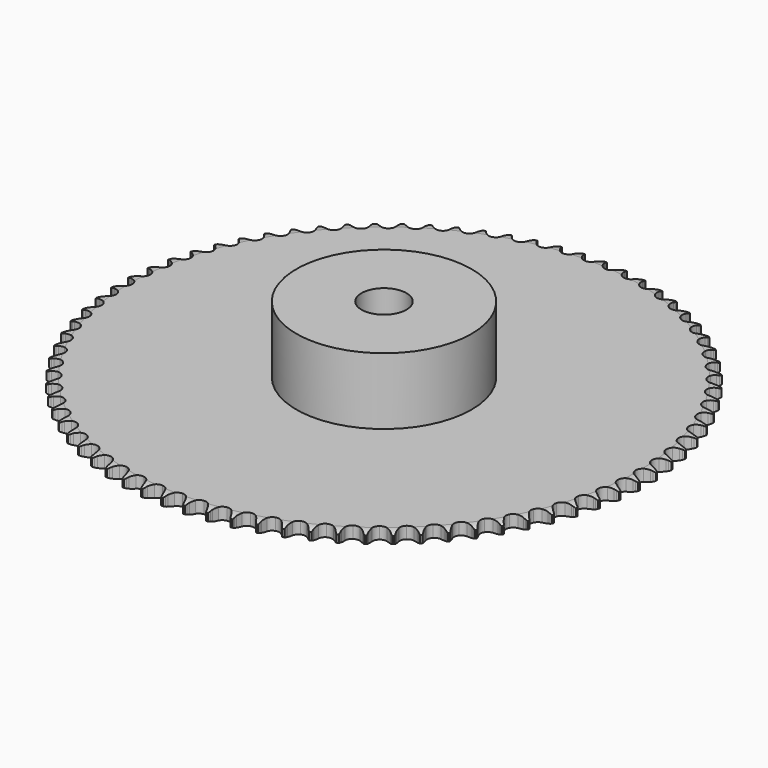
from build123d import *

# Parameters (mm, degrees)
PAD_DEPTH         = 5.3
SKETCH001_R       = 39
PAD001_DEPTH      = 35
SKETCH002_R       = 10
POCKET_DEPTH      = 0.001
POCKET_DEPTH_BACK = 35.001


with BuildPart() as part:
    # Sprocket → Pad (new body)
    with BuildSketch(Plane.XY):
        with BuildLine():
            ThreePointArc((-4.880885, 118.008917), (-4.408054, 117.285367), (-4.064703, 116.492143))
            Line((-4.064703, 116.492143), (-3.757636, 115.575814))
            ThreePointArc((-3.757636, 115.575814), (-3.272177, 114.423325), (-2.619252, 113.356748))
            ThreePointArc((-2.619252, 113.356748), (-1.471207, 112.370741), (0, 112.016106))
            ThreePointArc((0, 112.016106), (1.471207, 112.370741), (2.619252, 113.356748))
            ThreePointArc((2.619252, 113.356748), (3.272177, 114.423325), (3.757636, 115.575814))
            Line((3.757636, 115.575814), (4.064703, 116.492143))
            ThreePointArc((4.064703, 116.492143), (4.408054, 117.285367), (4.880885, 118.008917))
            ThreePointArc((4.880885, 118.008917), (5.292351, 117.248792), (5.569025, 116.429924))
            Line((5.569025, 116.429924), (5.799374, 115.491367))
            ThreePointArc((5.799374, 115.491367), (6.188002, 114.302726), (6.75062, 113.185874))
            ThreePointArc((6.75062, 113.185874), (7.81332, 112.108429), (9.250217, 111.633514))
            ThreePointArc((9.250217, 111.633514), (10.745684, 111.865447), (11.971232, 112.753281))
            Line((11.971232, 112.753281), (13.288977, 114.870761))
            ThreePointArc((13.288977, 114.870761), (13.466902, 115.320236), (13.670665, 115.758603))
            ThreePointArc((13.670665, 115.758603), (14.078347, 116.520764), (14.609313, 117.202796))
            ThreePointArc((14.609313, 117.202796), (14.956603, 116.411289), (15.16471, 115.572371))
            Line((15.16471, 115.572371), (15.316767, 114.617997))
            ThreePointArc((15.316767, 114.617997), (15.605911, 113.401323), (16.074379, 112.241825))
            ThreePointArc((16.074379, 112.241825), (17.044474, 111.080303), (18.437245, 110.488352))
            ThreePointArc((18.437245, 110.488352), (19.946758, 110.595998), (21.241436, 111.379595))
            Line((21.241436, 111.379595), (22.72954, 113.381024))
            ThreePointArc((22.72954, 113.381024), (22.943975, 113.814271), (23.183243, 114.234314))
            ThreePointArc((23.183243, 114.234314), (23.652471, 114.960206), (24.237945, 115.596062))
            ThreePointArc((24.237945, 115.596062), (24.518687, 114.778579), (24.656806, 113.92534))
            Line((24.656806, 113.92534), (24.729532, 112.961669))
            ThreePointArc((24.729532, 112.961669), (24.917216, 111.725274), (25.288333, 110.53105))
            ThreePointArc((25.288333, 110.53105), (26.159198, 109.293386), (27.498328, 108.588443))
            ThreePointArc((27.498328, 108.588443), (29.011575, 108.571066), (30.36654, 109.245074))
            Line((30.36654, 109.245074), (32.014838, 111.116779))
            ThreePointArc((32.014838, 111.116779), (32.264318, 111.530839), (32.537455, 111.929689))
            ThreePointArc((32.537455, 111.929689), (33.065024, 112.614353), (33.701008, 113.199689))
            ThreePointArc((33.701008, 113.199689), (33.913283, 112.361815), (33.980471, 111.500085))
            Line((33.980471, 111.500085), (33.973369, 110.5337))
            ThreePointArc((33.973369, 110.5337), (34.058311, 109.286028), (34.329543, 108.065237))
            ThreePointArc((34.329543, 108.065237), (35.095227, 106.759885), (36.37157, 105.946764))
            ThreePointArc((36.37157, 105.946764), (37.878213, 105.804484), (39.284209, 106.364297))
            Line((39.284209, 106.364297), (41.081442, 108.093495))
            ThreePointArc((41.081442, 108.093495), (41.364263, 108.485538), (41.669404, 108.860471))
            ThreePointArc((41.669404, 108.860471), (42.25171, 109.49923), (42.933858, 110.030048))
            ThreePointArc((42.933858, 110.030048), (43.076217, 109.177506), (43.072014, 108.31317))
            Line((43.072014, 108.31317), (42.985133, 107.350672))
            ThreePointArc((42.985133, 107.350672), (42.966754, 106.100248), (43.136246, 104.861228))
            ThreePointArc((43.136246, 104.861228), (43.79152, 103.497105), (44.996357, 102.581362))
            ThreePointArc((44.996357, 102.581362), (46.486105, 102.31515), (47.933528, 102.756945))
            Line((47.933528, 102.756945), (49.867418, 104.331822))
            ThreePointArc((49.867418, 104.331822), (50.181647, 104.699171), (50.516708, 105.047625))
            ThreePointArc((50.516708, 105.047625), (51.149774, 105.636116), (51.873426, 106.108789))
            ThreePointArc((51.873426, 106.108789), (51.944897, 105.247404), (51.869332, 104.386367))
            Line((51.869332, 104.386367), (51.703265, 103.434331))
            ThreePointArc((51.703265, 103.434331), (51.581689, 102.189696), (51.648286, 100.940911))
            ThreePointArc((51.648286, 100.940911), (52.188673, 99.527334), (53.313774, 98.515225))
            ThreePointArc((53.313774, 98.515225), (54.776449, 98.1269), (56.255412, 98.447659))
            Line((56.255412, 98.447659), (58.312749, 99.857457))
            ThreePointArc((58.312749, 99.857457), (58.656241, 100.197603), (59.018932, 100.517197))
            ThreePointArc((59.018932, 100.517197), (59.698432, 101.0514), (60.458647, 101.4627))
            ThreePointArc((60.458647, 101.4627), (60.458741, 100.598355), (60.31233, 99.746499))
            Line((60.31233, 99.746499), (60.068212, 98.811429))
            ThreePointArc((60.068212, 98.811429), (59.84427, 97.581084), (59.807515, 96.331065))
            ThreePointArc((59.807515, 96.331065), (60.229325, 94.877692), (61.267003, 93.776129))
            ThreePointArc((61.267003, 93.776129), (62.692615, 93.268344), (64.193014, 93.465875))
            Line((64.193014, 93.465875), (66.359745, 94.700965))
            ThreePointArc((66.359745, 94.700965), (66.730152, 95.011583), (67.117997, 95.300135))
            ThreePointArc((67.117997, 95.300135), (67.83929, 95.776401), (68.630873, 96.123518))
            ThreePointArc((68.630873, 96.123518), (68.55959, 95.262117), (68.343333, 94.425262))
            Line((68.343333, 94.425262), (68.022831, 93.513544))
            ThreePointArc((68.022831, 93.513544), (67.698053, 92.305894), (67.558198, 91.06318))
            ThreePointArc((67.558198, 91.06318), (67.858549, 89.579938), (68.801716, 88.396447))
            ThreePointArc((68.801716, 88.396447), (70.180527, 87.77267), (71.692114, 87.845624))
            Line((71.692114, 87.845624), (73.953437, 88.897569))
            ThreePointArc((73.953437, 88.897569), (74.348229, 89.176538), (74.758578, 89.432077))
            ThreePointArc((74.758578, 89.432077), (75.516737, 89.847152), (76.334281, 90.127715))
            ThreePointArc((76.334281, 90.127715), (76.192107, 89.275143), (75.907482, 88.459004))
            Line((75.907482, 88.459004), (75.512786, 87.576867))
            ThreePointArc((75.512786, 87.576867), (75.089391, 86.400162), (74.847391, 85.173241))
            ThreePointArc((74.847391, 85.173241), (75.02423, 83.670263), (75.866444, 82.412927))
            ThreePointArc((75.866444, 82.412927), (77.189034, 81.67742), (78.701483, 81.625299))
            Line((78.701483, 81.625299), (81.041951, 82.486912))
            ThreePointArc((81.041951, 82.486912), (81.458433, 82.732327), (81.888481, 82.953107))
            ThreePointArc((81.888481, 82.953107), (82.678328, 83.304155), (83.516248, 83.516248))
            ThreePointArc((83.516248, 83.516248), (83.304155, 82.678328), (82.953107, 81.888481))
            Line((82.953107, 81.888481), (82.486912, 81.041951))
            ThreePointArc((82.486912, 81.041951), (81.967791, 79.904229), (81.625299, 78.701483))
            ThreePointArc((81.625299, 78.701483), (81.67742, 77.189034), (82.412927, 75.866444))
            ThreePointArc((82.412927, 75.866444), (83.670263, 75.02423), (85.173241, 74.847391))
            Line((85.173241, 74.847391), (87.576867, 75.512786))
            ThreePointArc((87.576867, 75.512786), (88.012192, 75.72297), (88.459004, 75.907482))
            ThreePointArc((88.459004, 75.907482), (89.275143, 76.192107), (90.127715, 76.334281))
            ThreePointArc((90.127715, 76.334281), (89.847152, 75.516737), (89.432077, 74.758578))
            Line((89.432077, 74.758578), (88.897569, 73.953437))
            ThreePointArc((88.897569, 73.953437), (88.286268, 72.862469), (87.845624, 71.692114))
            ThreePointArc((87.845624, 71.692114), (87.77267, 70.180527), (88.396447, 68.801716))
            ThreePointArc((88.396447, 68.801716), (89.579938, 67.858549), (91.06318, 67.558198))
            Line((91.06318, 67.558198), (93.513544, 68.022831))
            ThreePointArc((93.513544, 68.022831), (93.964739, 68.196349), (94.425262, 68.343333))
            ThreePointArc((94.425262, 68.343333), (95.262117, 68.55959), (96.123518, 68.630873))
            ThreePointArc((96.123518, 68.630873), (95.776401, 67.83929), (95.300135, 67.117997))
            Line((95.300135, 67.117997), (94.700965, 66.359745))
            ThreePointArc((94.700965, 66.359745), (94.001661, 65.322984), (93.465875, 64.193014))
            ThreePointArc((93.465875, 64.193014), (93.268344, 62.692615), (93.776129, 61.267003))
            ThreePointArc((93.776129, 61.267003), (94.877692, 60.229325), (96.331065, 59.807515))
            Line((96.331065, 59.807515), (98.811429, 60.068212))
            ThreePointArc((98.811429, 60.068212), (99.275412, 60.203877), (99.746499, 60.31233))
            ThreePointArc((99.746499, 60.31233), (100.598355, 60.458741), (101.4627, 60.458647))
            ThreePointArc((101.4627, 60.458647), (101.0514, 59.698432), (100.517197, 59.018932))
            Line((100.517197, 59.018932), (99.857457, 58.312749))
            ThreePointArc((99.857457, 58.312749), (99.074927, 57.337278), (98.447659, 56.255412))
            ThreePointArc((98.447659, 56.255412), (98.1269, 54.776449), (98.515225, 53.313774))
            ThreePointArc((98.515225, 53.313774), (99.527334, 52.188673), (100.940911, 51.648286))
            Line((100.940911, 51.648286), (103.434331, 51.703265))
            ThreePointArc((103.434331, 51.703265), (103.907933, 51.800152), (104.386367, 51.869332))
            ThreePointArc((104.386367, 51.869332), (105.247404, 51.944897), (106.108789, 51.873426))
            ThreePointArc((106.108789, 51.873426), (105.636116, 51.149774), (105.047625, 50.516708))
            Line((105.047625, 50.516708), (104.331822, 49.867418))
            ThreePointArc((104.331822, 49.867418), (103.471411, 48.959899), (102.756945, 47.933528))
            ThreePointArc((102.756945, 47.933528), (102.31515, 46.486105), (102.581362, 44.996357))
            ThreePointArc((102.581362, 44.996357), (103.497105, 43.79152), (104.861228, 43.136246))
            Line((104.861228, 43.136246), (107.350672, 42.985133))
            ThreePointArc((107.350672, 42.985133), (107.830657, 43.042579), (108.31317, 43.072014))
            ThreePointArc((108.31317, 43.072014), (109.177506, 43.076217), (110.030048, 42.933858))
            ThreePointArc((110.030048, 42.933858), (109.49923, 42.25171), (108.860471, 41.669404))
            Line((108.860471, 41.669404), (108.093495, 41.081442))
            ThreePointArc((108.093495, 41.081442), (107.16108, 40.248075), (106.364297, 39.284209))
            ThreePointArc((106.364297, 39.284209), (105.804484, 37.878213), (105.946764, 36.37157))
            ThreePointArc((105.946764, 36.37157), (106.759885, 35.095227), (108.065237, 34.329543))
            Line((108.065237, 34.329543), (110.5337, 33.973369))
            ThreePointArc((110.5337, 33.973369), (111.016789, 33.990981), (111.500085, 33.980471))
            ThreePointArc((111.500085, 33.980471), (112.361815, 33.913283), (113.199689, 33.701008))
            ThreePointArc((113.199689, 33.701008), (112.614353, 33.065024), (111.929689, 32.537455))
            Line((111.929689, 32.537455), (111.116779, 32.014838))
            ThreePointArc((111.116779, 32.014838), (110.11873, 31.261315), (109.245074, 30.36654))
            ThreePointArc((109.245074, 30.36654), (108.571066, 29.011575), (108.588443, 27.498328))
            ThreePointArc((108.588443, 27.498328), (109.293386, 26.159198), (110.53105, 25.288333))
            Line((110.53105, 25.288333), (112.961669, 24.729532))
            ThreePointArc((112.961669, 24.729532), (113.444563, 24.707191), (113.92534, 24.656806))
            ThreePointArc((113.92534, 24.656806), (114.778579, 24.518687), (115.596062, 24.237945))
            ThreePointArc((115.596062, 24.237945), (114.960206, 23.652471), (114.234314, 23.183243))
            Line((114.234314, 23.183243), (113.381024, 22.72954))
            ThreePointArc((113.381024, 22.72954), (112.324158, 22.06101), (111.379595, 21.241436))
            ThreePointArc((111.379595, 21.241436), (110.595998, 19.946758), (110.488352, 18.437245))
            ThreePointArc((110.488352, 18.437245), (111.080303, 17.044474), (112.241825, 16.074379))
            Line((112.241825, 16.074379), (114.617997, 15.316767))
            ThreePointArc((114.617997, 15.316767), (115.097396, 15.254626), (115.572371, 15.16471))
            ThreePointArc((115.572371, 15.16471), (116.411289, 14.956603), (117.202796, 14.609313))
            ThreePointArc((117.202796, 14.609313), (116.520764, 14.078347), (115.758603, 13.670665))
            Line((115.758603, 13.670665), (114.870761, 13.288977))
            ThreePointArc((114.870761, 13.288977), (113.762298, 12.710005), (112.753281, 11.971232))
            ThreePointArc((112.753281, 11.971232), (111.865447, 10.745684), (111.633514, 9.250217))
            ThreePointArc((111.633514, 9.250217), (112.108429, 7.81332), (113.185874, 6.75062))
            Line((113.185874, 6.75062), (115.491367, 5.799374))
            ThreePointArc((115.491367, 5.799374), (115.963997, 5.697856), (116.429924, 5.569025))
            ThreePointArc((116.429924, 5.569025), (117.248792, 5.292351), (118.008917, 4.880885))
            ThreePointArc((118.008917, 4.880885), (117.285367, 4.408054), (116.492143, 4.064703))
            Line((116.492143, 4.064703), (115.575814, 3.757636))
            ThreePointArc((115.575814, 3.757636), (114.423325, 3.272177), (113.356748, 2.619252))
            ThreePointArc((113.356748, 2.619252), (112.370741, 1.471207), (112.016106, 0))
            ThreePointArc((112.016106, 0), (112.370741, -1.471207), (113.356748, -2.619252))
            Line((113.356748, -2.619252), (115.575814, -3.757636))
            ThreePointArc((115.575814, -3.757636), (116.038447, -3.897836), (116.492143, -4.064703))
            ThreePointArc((116.492143, -4.064703), (117.285367, -4.408054), (118.008917, -4.880885))
            ThreePointArc((118.008917, -4.880885), (117.248792, -5.292351), (116.429924, -5.569025))
            Line((116.429924, -5.569025), (115.491367, -5.799374))
            ThreePointArc((115.491367, -5.799374), (114.302726, -6.188002), (113.185874, -6.75062))
            ThreePointArc((113.185874, -6.75062), (112.108429, -7.81332), (111.633514, -9.250217))
            ThreePointArc((111.633514, -9.250217), (111.865447, -10.745684), (112.753281, -11.971232))
            Line((112.753281, -11.971232), (114.870761, -13.288977))
            ThreePointArc((114.870761, -13.288977), (115.320236, -13.466902), (115.758603, -13.670665))
            ThreePointArc((115.758603, -13.670665), (116.520764, -14.078347), (117.202796, -14.609313))
            ThreePointArc((117.202796, -14.609313), (116.411289, -14.956603), (115.572371, -15.16471))
            Line((115.572371, -15.16471), (114.617997, -15.316767))
            ThreePointArc((114.617997, -15.316767), (113.401323, -15.605911), (112.241825, -16.074379))
            ThreePointArc((112.241825, -16.074379), (111.080303, -17.044474), (110.488352, -18.437245))
            ThreePointArc((110.488352, -18.437245), (110.595998, -19.946758), (111.379595, -21.241436))
            Line((111.379595, -21.241436), (113.381024, -22.72954))
            ThreePointArc((113.381024, -22.72954), (113.814271, -22.943975), (114.234314, -23.183243))
            ThreePointArc((114.234314, -23.183243), (114.960206, -23.652471), (115.596062, -24.237945))
            ThreePointArc((115.596062, -24.237945), (114.778579, -24.518687), (113.92534, -24.656806))
            Line((113.92534, -24.656806), (112.961669, -24.729532))
            ThreePointArc((112.961669, -24.729532), (111.725274, -24.917216), (110.53105, -25.288333))
            ThreePointArc((110.53105, -25.288333), (109.293386, -26.159198), (108.588443, -27.498328))
            ThreePointArc((108.588443, -27.498328), (108.571066, -29.011575), (109.245074, -30.36654))
            Line((109.245074, -30.36654), (111.116779, -32.014838))
            ThreePointArc((111.116779, -32.014838), (111.530839, -32.264318), (111.929689, -32.537455))
            ThreePointArc((111.929689, -32.537455), (112.614353, -33.065024), (113.199689, -33.701008))
            ThreePointArc((113.199689, -33.701008), (112.361815, -33.913283), (111.500085, -33.980471))
            Line((111.500085, -33.980471), (110.5337, -33.973369))
            ThreePointArc((110.5337, -33.973369), (109.286028, -34.058311), (108.065237, -34.329543))
            ThreePointArc((108.065237, -34.329543), (106.759885, -35.095227), (105.946764, -36.37157))
            ThreePointArc((105.946764, -36.37157), (105.804484, -37.878213), (106.364297, -39.284209))
            Line((106.364297, -39.284209), (108.093495, -41.081442))
            ThreePointArc((108.093495, -41.081442), (108.485538, -41.364263), (108.860471, -41.669404))
            ThreePointArc((108.860471, -41.669404), (109.49923, -42.25171), (110.030048, -42.933858))
            ThreePointArc((110.030048, -42.933858), (109.177506, -43.076217), (108.31317, -43.072014))
            Line((108.31317, -43.072014), (107.350672, -42.985133))
            ThreePointArc((107.350672, -42.985133), (106.100248, -42.966754), (104.861228, -43.136246))
            ThreePointArc((104.861228, -43.136246), (103.497105, -43.79152), (102.581362, -44.996357))
            ThreePointArc((102.581362, -44.996357), (102.31515, -46.486105), (102.756945, -47.933528))
            Line((102.756945, -47.933528), (104.331822, -49.867418))
            ThreePointArc((104.331822, -49.867418), (104.699171, -50.181647), (105.047625, -50.516708))
            ThreePointArc((105.047625, -50.516708), (105.636116, -51.149774), (106.108789, -51.873426))
            ThreePointArc((106.108789, -51.873426), (105.247404, -51.944897), (104.386367, -51.869332))
            Line((104.386367, -51.869332), (103.434331, -51.703265))
            ThreePointArc((103.434331, -51.703265), (102.189696, -51.581689), (100.940911, -51.648286))
            ThreePointArc((100.940911, -51.648286), (99.527334, -52.188673), (98.515225, -53.313774))
            ThreePointArc((98.515225, -53.313774), (98.1269, -54.776449), (98.447659, -56.255412))
            Line((98.447659, -56.255412), (99.857457, -58.312749))
            ThreePointArc((99.857457, -58.312749), (100.197603, -58.656241), (100.517197, -59.018932))
            ThreePointArc((100.517197, -59.018932), (101.0514, -59.698432), (101.4627, -60.458647))
            ThreePointArc((101.4627, -60.458647), (100.598355, -60.458741), (99.746499, -60.31233))
            Line((99.746499, -60.31233), (98.811429, -60.068212))
            ThreePointArc((98.811429, -60.068212), (97.581084, -59.84427), (96.331065, -59.807515))
            ThreePointArc((96.331065, -59.807515), (94.877692, -60.229325), (93.776129, -61.267003))
            ThreePointArc((93.776129, -61.267003), (93.268344, -62.692615), (93.465875, -64.193014))
            Line((93.465875, -64.193014), (94.700965, -66.359745))
            ThreePointArc((94.700965, -66.359745), (95.011583, -66.730152), (95.300135, -67.117997))
            ThreePointArc((95.300135, -67.117997), (95.776401, -67.83929), (96.123518, -68.630873))
            ThreePointArc((96.123518, -68.630873), (95.262117, -68.55959), (94.425262, -68.343333))
            Line((94.425262, -68.343333), (93.513544, -68.022831))
            ThreePointArc((93.513544, -68.022831), (92.305894, -67.698053), (91.06318, -67.558198))
            ThreePointArc((91.06318, -67.558198), (89.579938, -67.858549), (88.396447, -68.801716))
            ThreePointArc((88.396447, -68.801716), (87.77267, -70.180527), (87.845624, -71.692114))
            Line((87.845624, -71.692114), (88.897569, -73.953437))
            ThreePointArc((88.897569, -73.953437), (89.176538, -74.348229), (89.432077, -74.758578))
            ThreePointArc((89.432077, -74.758578), (89.847152, -75.516737), (90.127715, -76.334281))
            ThreePointArc((90.127715, -76.334281), (89.275143, -76.192107), (88.459004, -75.907482))
            Line((88.459004, -75.907482), (87.576867, -75.512786))
            ThreePointArc((87.576867, -75.512786), (86.400162, -75.089391), (85.173241, -74.847391))
            ThreePointArc((85.173241, -74.847391), (83.670263, -75.02423), (82.412927, -75.866444))
            ThreePointArc((82.412927, -75.866444), (81.67742, -77.189034), (81.625299, -78.701483))
            Line((81.625299, -78.701483), (82.486912, -81.041951))
            ThreePointArc((82.486912, -81.041951), (82.732327, -81.458433), (82.953107, -81.888481))
            ThreePointArc((82.953107, -81.888481), (83.304155, -82.678328), (83.516248, -83.516248))
            ThreePointArc((83.516248, -83.516248), (82.678328, -83.304155), (81.888481, -82.953107))
            Line((81.888481, -82.953107), (81.041951, -82.486912))
            ThreePointArc((81.041951, -82.486912), (79.904229, -81.967791), (78.701483, -81.625299))
            ThreePointArc((78.701483, -81.625299), (77.189034, -81.67742), (75.866444, -82.412927))
            ThreePointArc((75.866444, -82.412927), (75.02423, -83.670263), (74.847391, -85.173241))
            Line((74.847391, -85.173241), (75.512786, -87.576867))
            ThreePointArc((75.512786, -87.576867), (75.72297, -88.012192), (75.907482, -88.459004))
            ThreePointArc((75.907482, -88.459004), (76.192107, -89.275143), (76.334281, -90.127715))
            ThreePointArc((76.334281, -90.127715), (75.516737, -89.847152), (74.758578, -89.432077))
            Line((74.758578, -89.432077), (73.953437, -88.897569))
            ThreePointArc((73.953437, -88.897569), (72.862469, -88.286268), (71.692114, -87.845624))
            ThreePointArc((71.692114, -87.845624), (70.180527, -87.77267), (68.801716, -88.396447))
            ThreePointArc((68.801716, -88.396447), (67.858549, -89.579938), (67.558198, -91.06318))
            Line((67.558198, -91.06318), (68.022831, -93.513544))
            ThreePointArc((68.022831, -93.513544), (68.196349, -93.964739), (68.343333, -94.425262))
            ThreePointArc((68.343333, -94.425262), (68.55959, -95.262117), (68.630873, -96.123518))
            ThreePointArc((68.630873, -96.123518), (67.83929, -95.776401), (67.117997, -95.300135))
            Line((67.117997, -95.300135), (66.359745, -94.700965))
            ThreePointArc((66.359745, -94.700965), (65.322984, -94.001661), (64.193014, -93.465875))
            ThreePointArc((64.193014, -93.465875), (62.692615, -93.268344), (61.267003, -93.776129))
            ThreePointArc((61.267003, -93.776129), (60.229325, -94.877692), (59.807515, -96.331065))
            Line((59.807515, -96.331065), (60.068212, -98.811429))
            ThreePointArc((60.068212, -98.811429), (60.203877, -99.275412), (60.31233, -99.746499))
            ThreePointArc((60.31233, -99.746499), (60.458741, -100.598355), (60.458647, -101.4627))
            ThreePointArc((60.458647, -101.4627), (59.698432, -101.0514), (59.018932, -100.517197))
            Line((59.018932, -100.517197), (58.312749, -99.857457))
            ThreePointArc((58.312749, -99.857457), (57.337278, -99.074927), (56.255412, -98.447659))
            ThreePointArc((56.255412, -98.447659), (54.776449, -98.1269), (53.313774, -98.515225))
            ThreePointArc((53.313774, -98.515225), (52.188673, -99.527334), (51.648286, -100.940911))
            Line((51.648286, -100.940911), (51.703265, -103.434331))
            ThreePointArc((51.703265, -103.434331), (51.800152, -103.907933), (51.869332, -104.386367))
            ThreePointArc((51.869332, -104.386367), (51.944897, -105.247404), (51.873426, -106.108789))
            ThreePointArc((51.873426, -106.108789), (51.149774, -105.636116), (50.516708, -105.047625))
            Line((50.516708, -105.047625), (49.867418, -104.331822))
            ThreePointArc((49.867418, -104.331822), (48.959899, -103.471411), (47.933528, -102.756945))
            ThreePointArc((47.933528, -102.756945), (46.486105, -102.31515), (44.996357, -102.581362))
            ThreePointArc((44.996357, -102.581362), (43.79152, -103.497105), (43.136246, -104.861228))
            Line((43.136246, -104.861228), (42.985133, -107.350672))
            ThreePointArc((42.985133, -107.350672), (43.042579, -107.830657), (43.072014, -108.31317))
            ThreePointArc((43.072014, -108.31317), (43.076217, -109.177506), (42.933858, -110.030048))
            ThreePointArc((42.933858, -110.030048), (42.25171, -109.49923), (41.669404, -108.860471))
            Line((41.669404, -108.860471), (41.081442, -108.093495))
            ThreePointArc((41.081442, -108.093495), (40.248075, -107.16108), (39.284209, -106.364297))
            ThreePointArc((39.284209, -106.364297), (37.878213, -105.804484), (36.37157, -105.946764))
            ThreePointArc((36.37157, -105.946764), (35.095227, -106.759885), (34.329543, -108.065237))
            Line((34.329543, -108.065237), (33.973369, -110.5337))
            ThreePointArc((33.973369, -110.5337), (33.990981, -111.016789), (33.980471, -111.500085))
            ThreePointArc((33.980471, -111.500085), (33.913283, -112.361815), (33.701008, -113.199689))
            ThreePointArc((33.701008, -113.199689), (33.065024, -112.614353), (32.537455, -111.929689))
            Line((32.537455, -111.929689), (32.014838, -111.116779))
            ThreePointArc((32.014838, -111.116779), (31.261315, -110.11873), (30.36654, -109.245074))
            ThreePointArc((30.36654, -109.245074), (29.011575, -108.571066), (27.498328, -108.588443))
            ThreePointArc((27.498328, -108.588443), (26.159198, -109.293386), (25.288333, -110.53105))
            Line((25.288333, -110.53105), (24.729532, -112.961669))
            ThreePointArc((24.729532, -112.961669), (24.707191, -113.444563), (24.656806, -113.92534))
            ThreePointArc((24.656806, -113.92534), (24.518687, -114.778579), (24.237945, -115.596062))
            ThreePointArc((24.237945, -115.596062), (23.652471, -114.960206), (23.183243, -114.234314))
            Line((23.183243, -114.234314), (22.72954, -113.381024))
            ThreePointArc((22.72954, -113.381024), (22.06101, -112.324158), (21.241436, -111.379595))
            ThreePointArc((21.241436, -111.379595), (19.946758, -110.595998), (18.437245, -110.488352))
            ThreePointArc((18.437245, -110.488352), (17.044474, -111.080303), (16.074379, -112.241825))
            Line((16.074379, -112.241825), (15.316767, -114.617997))
            ThreePointArc((15.316767, -114.617997), (15.254626, -115.097396), (15.16471, -115.572371))
            ThreePointArc((15.16471, -115.572371), (14.956603, -116.411289), (14.609313, -117.202796))
            ThreePointArc((14.609313, -117.202796), (14.078347, -116.520764), (13.670665, -115.758603))
            Line((13.670665, -115.758603), (13.288977, -114.870761))
            ThreePointArc((13.288977, -114.870761), (12.710005, -113.762298), (11.971232, -112.753281))
            ThreePointArc((11.971232, -112.753281), (10.745684, -111.865447), (9.250217, -111.633514))
            ThreePointArc((9.250217, -111.633514), (7.81332, -112.108429), (6.75062, -113.185874))
            Line((6.75062, -113.185874), (5.799374, -115.491367))
            ThreePointArc((5.799374, -115.491367), (5.697856, -115.963997), (5.569025, -116.429924))
            ThreePointArc((5.569025, -116.429924), (5.292351, -117.248792), (4.880885, -118.008917))
            ThreePointArc((4.880885, -118.008917), (4.408054, -117.285367), (4.064703, -116.492143))
            Line((4.064703, -116.492143), (3.757636, -115.575814))
            ThreePointArc((3.757636, -115.575814), (3.272177, -114.423325), (2.619252, -113.356748))
            ThreePointArc((2.619252, -113.356748), (1.471207, -112.370741), (0, -112.016106))
            ThreePointArc((0, -112.016106), (-1.471207, -112.370741), (-2.619252, -113.356748))
            Line((-2.619252, -113.356748), (-3.757636, -115.575814))
            ThreePointArc((-3.757636, -115.575814), (-3.897836, -116.038447), (-4.064703, -116.492143))
            ThreePointArc((-4.064703, -116.492143), (-4.408054, -117.285367), (-4.880885, -118.008917))
            ThreePointArc((-4.880885, -118.008917), (-5.292351, -117.248792), (-5.569025, -116.429924))
            Line((-5.569025, -116.429924), (-5.799374, -115.491367))
            ThreePointArc((-5.799374, -115.491367), (-6.188002, -114.302726), (-6.75062, -113.185874))
            ThreePointArc((-6.75062, -113.185874), (-7.81332, -112.108429), (-9.250217, -111.633514))
            ThreePointArc((-9.250217, -111.633514), (-10.745684, -111.865447), (-11.971232, -112.753281))
            Line((-11.971232, -112.753281), (-13.288977, -114.870761))
            ThreePointArc((-13.288977, -114.870761), (-13.466902, -115.320236), (-13.670665, -115.758603))
            ThreePointArc((-13.670665, -115.758603), (-14.078347, -116.520764), (-14.609313, -117.202796))
            ThreePointArc((-14.609313, -117.202796), (-14.956603, -116.411289), (-15.16471, -115.572371))
            Line((-15.16471, -115.572371), (-15.316767, -114.617997))
            ThreePointArc((-15.316767, -114.617997), (-15.605911, -113.401323), (-16.074379, -112.241825))
            ThreePointArc((-16.074379, -112.241825), (-17.044474, -111.080303), (-18.437245, -110.488352))
            ThreePointArc((-18.437245, -110.488352), (-19.946758, -110.595998), (-21.241436, -111.379595))
            Line((-21.241436, -111.379595), (-22.72954, -113.381024))
            ThreePointArc((-22.72954, -113.381024), (-22.943975, -113.814271), (-23.183243, -114.234314))
            ThreePointArc((-23.183243, -114.234314), (-23.652471, -114.960206), (-24.237945, -115.596062))
            ThreePointArc((-24.237945, -115.596062), (-24.518687, -114.778579), (-24.656806, -113.92534))
            Line((-24.656806, -113.92534), (-24.729532, -112.961669))
            ThreePointArc((-24.729532, -112.961669), (-24.917216, -111.725274), (-25.288333, -110.53105))
            ThreePointArc((-25.288333, -110.53105), (-26.159198, -109.293386), (-27.498328, -108.588443))
            ThreePointArc((-27.498328, -108.588443), (-29.011575, -108.571066), (-30.36654, -109.245074))
            Line((-30.36654, -109.245074), (-32.014838, -111.116779))
            ThreePointArc((-32.014838, -111.116779), (-32.264318, -111.530839), (-32.537455, -111.929689))
            ThreePointArc((-32.537455, -111.929689), (-33.065024, -112.614353), (-33.701008, -113.199689))
            ThreePointArc((-33.701008, -113.199689), (-33.913283, -112.361815), (-33.980471, -111.500085))
            Line((-33.980471, -111.500085), (-33.973369, -110.5337))
            ThreePointArc((-33.973369, -110.5337), (-34.058311, -109.286028), (-34.329543, -108.065237))
            ThreePointArc((-34.329543, -108.065237), (-35.095227, -106.759885), (-36.37157, -105.946764))
            ThreePointArc((-36.37157, -105.946764), (-37.878213, -105.804484), (-39.284209, -106.364297))
            Line((-39.284209, -106.364297), (-41.081442, -108.093495))
            ThreePointArc((-41.081442, -108.093495), (-41.364263, -108.485538), (-41.669404, -108.860471))
            ThreePointArc((-41.669404, -108.860471), (-42.25171, -109.49923), (-42.933858, -110.030048))
            ThreePointArc((-42.933858, -110.030048), (-43.076217, -109.177506), (-43.072014, -108.31317))
            Line((-43.072014, -108.31317), (-42.985133, -107.350672))
            ThreePointArc((-42.985133, -107.350672), (-42.966754, -106.100248), (-43.136246, -104.861228))
            ThreePointArc((-43.136246, -104.861228), (-43.79152, -103.497105), (-44.996357, -102.581362))
            ThreePointArc((-44.996357, -102.581362), (-46.486105, -102.31515), (-47.933528, -102.756945))
            Line((-47.933528, -102.756945), (-49.867418, -104.331822))
            ThreePointArc((-49.867418, -104.331822), (-50.181647, -104.699171), (-50.516708, -105.047625))
            ThreePointArc((-50.516708, -105.047625), (-51.149774, -105.636116), (-51.873426, -106.108789))
            ThreePointArc((-51.873426, -106.108789), (-51.944897, -105.247404), (-51.869332, -104.386367))
            Line((-51.869332, -104.386367), (-51.703265, -103.434331))
            ThreePointArc((-51.703265, -103.434331), (-51.581689, -102.189696), (-51.648286, -100.940911))
            ThreePointArc((-51.648286, -100.940911), (-52.188673, -99.527334), (-53.313774, -98.515225))
            ThreePointArc((-53.313774, -98.515225), (-54.776449, -98.1269), (-56.255412, -98.447659))
            Line((-56.255412, -98.447659), (-58.312749, -99.857457))
            ThreePointArc((-58.312749, -99.857457), (-58.656241, -100.197603), (-59.018932, -100.517197))
            ThreePointArc((-59.018932, -100.517197), (-59.698432, -101.0514), (-60.458647, -101.4627))
            ThreePointArc((-60.458647, -101.4627), (-60.458741, -100.598355), (-60.31233, -99.746499))
            Line((-60.31233, -99.746499), (-60.068212, -98.811429))
            ThreePointArc((-60.068212, -98.811429), (-59.84427, -97.581084), (-59.807515, -96.331065))
            ThreePointArc((-59.807515, -96.331065), (-60.229325, -94.877692), (-61.267003, -93.776129))
            ThreePointArc((-61.267003, -93.776129), (-62.692615, -93.268344), (-64.193014, -93.465875))
            Line((-64.193014, -93.465875), (-66.359745, -94.700965))
            ThreePointArc((-66.359745, -94.700965), (-66.730152, -95.011583), (-67.117997, -95.300135))
            ThreePointArc((-67.117997, -95.300135), (-67.83929, -95.776401), (-68.630873, -96.123518))
            ThreePointArc((-68.630873, -96.123518), (-68.55959, -95.262117), (-68.343333, -94.425262))
            Line((-68.343333, -94.425262), (-68.022831, -93.513544))
            ThreePointArc((-68.022831, -93.513544), (-67.698053, -92.305894), (-67.558198, -91.06318))
            ThreePointArc((-67.558198, -91.06318), (-67.858549, -89.579938), (-68.801716, -88.396447))
            ThreePointArc((-68.801716, -88.396447), (-70.180527, -87.77267), (-71.692114, -87.845624))
            Line((-71.692114, -87.845624), (-73.953437, -88.897569))
            ThreePointArc((-73.953437, -88.897569), (-74.348229, -89.176538), (-74.758578, -89.432077))
            ThreePointArc((-74.758578, -89.432077), (-75.516737, -89.847152), (-76.334281, -90.127715))
            ThreePointArc((-76.334281, -90.127715), (-76.192107, -89.275143), (-75.907482, -88.459004))
            Line((-75.907482, -88.459004), (-75.512786, -87.576867))
            ThreePointArc((-75.512786, -87.576867), (-75.089391, -86.400162), (-74.847391, -85.173241))
            ThreePointArc((-74.847391, -85.173241), (-75.02423, -83.670263), (-75.866444, -82.412927))
            ThreePointArc((-75.866444, -82.412927), (-77.189034, -81.67742), (-78.701483, -81.625299))
            Line((-78.701483, -81.625299), (-81.041951, -82.486912))
            ThreePointArc((-81.041951, -82.486912), (-81.458433, -82.732327), (-81.888481, -82.953107))
            ThreePointArc((-81.888481, -82.953107), (-82.678328, -83.304155), (-83.516248, -83.516248))
            ThreePointArc((-83.516248, -83.516248), (-83.304155, -82.678328), (-82.953107, -81.888481))
            Line((-82.953107, -81.888481), (-82.486912, -81.041951))
            ThreePointArc((-82.486912, -81.041951), (-81.967791, -79.904229), (-81.625299, -78.701483))
            ThreePointArc((-81.625299, -78.701483), (-81.67742, -77.189034), (-82.412927, -75.866444))
            ThreePointArc((-82.412927, -75.866444), (-83.670263, -75.02423), (-85.173241, -74.847391))
            Line((-85.173241, -74.847391), (-87.576867, -75.512786))
            ThreePointArc((-87.576867, -75.512786), (-88.012192, -75.72297), (-88.459004, -75.907482))
            ThreePointArc((-88.459004, -75.907482), (-89.275143, -76.192107), (-90.127715, -76.334281))
            ThreePointArc((-90.127715, -76.334281), (-89.847152, -75.516737), (-89.432077, -74.758578))
            Line((-89.432077, -74.758578), (-88.897569, -73.953437))
            ThreePointArc((-88.897569, -73.953437), (-88.286268, -72.862469), (-87.845624, -71.692114))
            ThreePointArc((-87.845624, -71.692114), (-87.77267, -70.180527), (-88.396447, -68.801716))
            ThreePointArc((-88.396447, -68.801716), (-89.579938, -67.858549), (-91.06318, -67.558198))
            Line((-91.06318, -67.558198), (-93.513544, -68.022831))
            ThreePointArc((-93.513544, -68.022831), (-93.964739, -68.196349), (-94.425262, -68.343333))
            ThreePointArc((-94.425262, -68.343333), (-95.262117, -68.55959), (-96.123518, -68.630873))
            ThreePointArc((-96.123518, -68.630873), (-95.776401, -67.83929), (-95.300135, -67.117997))
            Line((-95.300135, -67.117997), (-94.700965, -66.359745))
            ThreePointArc((-94.700965, -66.359745), (-94.001661, -65.322984), (-93.465875, -64.193014))
            ThreePointArc((-93.465875, -64.193014), (-93.268344, -62.692615), (-93.776129, -61.267003))
            ThreePointArc((-93.776129, -61.267003), (-94.877692, -60.229325), (-96.331065, -59.807515))
            Line((-96.331065, -59.807515), (-98.811429, -60.068212))
            ThreePointArc((-98.811429, -60.068212), (-99.275412, -60.203877), (-99.746499, -60.31233))
            ThreePointArc((-99.746499, -60.31233), (-100.598355, -60.458741), (-101.4627, -60.458647))
            ThreePointArc((-101.4627, -60.458647), (-101.0514, -59.698432), (-100.517197, -59.018932))
            Line((-100.517197, -59.018932), (-99.857457, -58.312749))
            ThreePointArc((-99.857457, -58.312749), (-99.074927, -57.337278), (-98.447659, -56.255412))
            ThreePointArc((-98.447659, -56.255412), (-98.1269, -54.776449), (-98.515225, -53.313774))
            ThreePointArc((-98.515225, -53.313774), (-99.527334, -52.188673), (-100.940911, -51.648286))
            Line((-100.940911, -51.648286), (-103.434331, -51.703265))
            ThreePointArc((-103.434331, -51.703265), (-103.907933, -51.800152), (-104.386367, -51.869332))
            ThreePointArc((-104.386367, -51.869332), (-105.247404, -51.944897), (-106.108789, -51.873426))
            ThreePointArc((-106.108789, -51.873426), (-105.636116, -51.149774), (-105.047625, -50.516708))
            Line((-105.047625, -50.516708), (-104.331822, -49.867418))
            ThreePointArc((-104.331822, -49.867418), (-103.471411, -48.959899), (-102.756945, -47.933528))
            ThreePointArc((-102.756945, -47.933528), (-102.31515, -46.486105), (-102.581362, -44.996357))
            ThreePointArc((-102.581362, -44.996357), (-103.497105, -43.79152), (-104.861228, -43.136246))
            Line((-104.861228, -43.136246), (-107.350672, -42.985133))
            ThreePointArc((-107.350672, -42.985133), (-107.830657, -43.042579), (-108.31317, -43.072014))
            ThreePointArc((-108.31317, -43.072014), (-109.177506, -43.076217), (-110.030048, -42.933858))
            ThreePointArc((-110.030048, -42.933858), (-109.49923, -42.25171), (-108.860471, -41.669404))
            Line((-108.860471, -41.669404), (-108.093495, -41.081442))
            ThreePointArc((-108.093495, -41.081442), (-107.16108, -40.248075), (-106.364297, -39.284209))
            ThreePointArc((-106.364297, -39.284209), (-105.804484, -37.878213), (-105.946764, -36.37157))
            ThreePointArc((-105.946764, -36.37157), (-106.759885, -35.095227), (-108.065237, -34.329543))
            Line((-108.065237, -34.329543), (-110.5337, -33.973369))
            ThreePointArc((-110.5337, -33.973369), (-111.016789, -33.990981), (-111.500085, -33.980471))
            ThreePointArc((-111.500085, -33.980471), (-112.361815, -33.913283), (-113.199689, -33.701008))
            ThreePointArc((-113.199689, -33.701008), (-112.614353, -33.065024), (-111.929689, -32.537455))
            Line((-111.929689, -32.537455), (-111.116779, -32.014838))
            ThreePointArc((-111.116779, -32.014838), (-110.11873, -31.261315), (-109.245074, -30.36654))
            ThreePointArc((-109.245074, -30.36654), (-108.571066, -29.011575), (-108.588443, -27.498328))
            ThreePointArc((-108.588443, -27.498328), (-109.293386, -26.159198), (-110.53105, -25.288333))
            Line((-110.53105, -25.288333), (-112.961669, -24.729532))
            ThreePointArc((-112.961669, -24.729532), (-113.444563, -24.707191), (-113.92534, -24.656806))
            ThreePointArc((-113.92534, -24.656806), (-114.778579, -24.518687), (-115.596062, -24.237945))
            ThreePointArc((-115.596062, -24.237945), (-114.960206, -23.652471), (-114.234314, -23.183243))
            Line((-114.234314, -23.183243), (-113.381024, -22.72954))
            ThreePointArc((-113.381024, -22.72954), (-112.324158, -22.06101), (-111.379595, -21.241436))
            ThreePointArc((-111.379595, -21.241436), (-110.595998, -19.946758), (-110.488352, -18.437245))
            ThreePointArc((-110.488352, -18.437245), (-111.080303, -17.044474), (-112.241825, -16.074379))
            Line((-112.241825, -16.074379), (-114.617997, -15.316767))
            ThreePointArc((-114.617997, -15.316767), (-115.097396, -15.254626), (-115.572371, -15.16471))
            ThreePointArc((-115.572371, -15.16471), (-116.411289, -14.956603), (-117.202796, -14.609313))
            ThreePointArc((-117.202796, -14.609313), (-116.520764, -14.078347), (-115.758603, -13.670665))
            Line((-115.758603, -13.670665), (-114.870761, -13.288977))
            ThreePointArc((-114.870761, -13.288977), (-113.762298, -12.710005), (-112.753281, -11.971232))
            ThreePointArc((-112.753281, -11.971232), (-111.865447, -10.745684), (-111.633514, -9.250217))
            ThreePointArc((-111.633514, -9.250217), (-112.108429, -7.81332), (-113.185874, -6.75062))
            Line((-113.185874, -6.75062), (-115.491367, -5.799374))
            ThreePointArc((-115.491367, -5.799374), (-115.963997, -5.697856), (-116.429924, -5.569025))
            ThreePointArc((-116.429924, -5.569025), (-117.248792, -5.292351), (-118.008917, -4.880885))
            ThreePointArc((-118.008917, -4.880885), (-117.285367, -4.408054), (-116.492143, -4.064703))
            Line((-116.492143, -4.064703), (-115.575814, -3.757636))
            ThreePointArc((-115.575814, -3.757636), (-114.423325, -3.272177), (-113.356748, -2.619252))
            ThreePointArc((-113.356748, -2.619252), (-112.370741, -1.471207), (-112.016106, 0))
            ThreePointArc((-112.016106, 0), (-112.370741, 1.471207), (-113.356748, 2.619252))
            Line((-113.356748, 2.619252), (-115.575814, 3.757636))
            ThreePointArc((-115.575814, 3.757636), (-116.038447, 3.897836), (-116.492143, 4.064703))
            ThreePointArc((-116.492143, 4.064703), (-117.285367, 4.408054), (-118.008917, 4.880885))
            ThreePointArc((-118.008917, 4.880885), (-117.248792, 5.292351), (-116.429924, 5.569025))
            Line((-116.429924, 5.569025), (-115.491367, 5.799374))
            ThreePointArc((-115.491367, 5.799374), (-114.302726, 6.188002), (-113.185874, 6.75062))
            ThreePointArc((-113.185874, 6.75062), (-112.108429, 7.81332), (-111.633514, 9.250217))
            ThreePointArc((-111.633514, 9.250217), (-111.865447, 10.745684), (-112.753281, 11.971232))
            Line((-112.753281, 11.971232), (-114.870761, 13.288977))
            ThreePointArc((-114.870761, 13.288977), (-115.320236, 13.466902), (-115.758603, 13.670665))
            ThreePointArc((-115.758603, 13.670665), (-116.520764, 14.078347), (-117.202796, 14.609313))
            ThreePointArc((-117.202796, 14.609313), (-116.411289, 14.956603), (-115.572371, 15.16471))
            Line((-115.572371, 15.16471), (-114.617997, 15.316767))
            ThreePointArc((-114.617997, 15.316767), (-113.401323, 15.605911), (-112.241825, 16.074379))
            ThreePointArc((-112.241825, 16.074379), (-111.080303, 17.044474), (-110.488352, 18.437245))
            ThreePointArc((-110.488352, 18.437245), (-110.595998, 19.946758), (-111.379595, 21.241436))
            Line((-111.379595, 21.241436), (-113.381024, 22.72954))
            ThreePointArc((-113.381024, 22.72954), (-113.814271, 22.943975), (-114.234314, 23.183243))
            ThreePointArc((-114.234314, 23.183243), (-114.960206, 23.652471), (-115.596062, 24.237945))
            ThreePointArc((-115.596062, 24.237945), (-114.778579, 24.518687), (-113.92534, 24.656806))
            Line((-113.92534, 24.656806), (-112.961669, 24.729532))
            ThreePointArc((-112.961669, 24.729532), (-111.725274, 24.917216), (-110.53105, 25.288333))
            ThreePointArc((-110.53105, 25.288333), (-109.293386, 26.159198), (-108.588443, 27.498328))
            ThreePointArc((-108.588443, 27.498328), (-108.571066, 29.011575), (-109.245074, 30.36654))
            Line((-109.245074, 30.36654), (-111.116779, 32.014838))
            ThreePointArc((-111.116779, 32.014838), (-111.530839, 32.264318), (-111.929689, 32.537455))
            ThreePointArc((-111.929689, 32.537455), (-112.614353, 33.065024), (-113.199689, 33.701008))
            ThreePointArc((-113.199689, 33.701008), (-112.361815, 33.913283), (-111.500085, 33.980471))
            Line((-111.500085, 33.980471), (-110.5337, 33.973369))
            ThreePointArc((-110.5337, 33.973369), (-109.286028, 34.058311), (-108.065237, 34.329543))
            ThreePointArc((-108.065237, 34.329543), (-106.759885, 35.095227), (-105.946764, 36.37157))
            ThreePointArc((-105.946764, 36.37157), (-105.804484, 37.878213), (-106.364297, 39.284209))
            Line((-106.364297, 39.284209), (-108.093495, 41.081442))
            ThreePointArc((-108.093495, 41.081442), (-108.485538, 41.364263), (-108.860471, 41.669404))
            ThreePointArc((-108.860471, 41.669404), (-109.49923, 42.25171), (-110.030048, 42.933858))
            ThreePointArc((-110.030048, 42.933858), (-109.177506, 43.076217), (-108.31317, 43.072014))
            Line((-108.31317, 43.072014), (-107.350672, 42.985133))
            ThreePointArc((-107.350672, 42.985133), (-106.100248, 42.966754), (-104.861228, 43.136246))
            ThreePointArc((-104.861228, 43.136246), (-103.497105, 43.79152), (-102.581362, 44.996357))
            ThreePointArc((-102.581362, 44.996357), (-102.31515, 46.486105), (-102.756945, 47.933528))
            Line((-102.756945, 47.933528), (-104.331822, 49.867418))
            ThreePointArc((-104.331822, 49.867418), (-104.699171, 50.181647), (-105.047625, 50.516708))
            ThreePointArc((-105.047625, 50.516708), (-105.636116, 51.149774), (-106.108789, 51.873426))
            ThreePointArc((-106.108789, 51.873426), (-105.247404, 51.944897), (-104.386367, 51.869332))
            Line((-104.386367, 51.869332), (-103.434331, 51.703265))
            ThreePointArc((-103.434331, 51.703265), (-102.189696, 51.581689), (-100.940911, 51.648286))
            ThreePointArc((-100.940911, 51.648286), (-99.527334, 52.188673), (-98.515225, 53.313774))
            ThreePointArc((-98.515225, 53.313774), (-98.1269, 54.776449), (-98.447659, 56.255412))
            Line((-98.447659, 56.255412), (-99.857457, 58.312749))
            ThreePointArc((-99.857457, 58.312749), (-100.197603, 58.656241), (-100.517197, 59.018932))
            ThreePointArc((-100.517197, 59.018932), (-101.0514, 59.698432), (-101.4627, 60.458647))
            ThreePointArc((-101.4627, 60.458647), (-100.598355, 60.458741), (-99.746499, 60.31233))
            Line((-99.746499, 60.31233), (-98.811429, 60.068212))
            ThreePointArc((-98.811429, 60.068212), (-97.581084, 59.84427), (-96.331065, 59.807515))
            ThreePointArc((-96.331065, 59.807515), (-94.877692, 60.229325), (-93.776129, 61.267003))
            ThreePointArc((-93.776129, 61.267003), (-93.268344, 62.692615), (-93.465875, 64.193014))
            Line((-93.465875, 64.193014), (-94.700965, 66.359745))
            ThreePointArc((-94.700965, 66.359745), (-95.011583, 66.730152), (-95.300135, 67.117997))
            ThreePointArc((-95.300135, 67.117997), (-95.776401, 67.83929), (-96.123518, 68.630873))
            ThreePointArc((-96.123518, 68.630873), (-95.262117, 68.55959), (-94.425262, 68.343333))
            Line((-94.425262, 68.343333), (-93.513544, 68.022831))
            ThreePointArc((-93.513544, 68.022831), (-92.305894, 67.698053), (-91.06318, 67.558198))
            ThreePointArc((-91.06318, 67.558198), (-89.579938, 67.858549), (-88.396447, 68.801716))
            ThreePointArc((-88.396447, 68.801716), (-87.77267, 70.180527), (-87.845624, 71.692114))
            Line((-87.845624, 71.692114), (-88.897569, 73.953437))
            ThreePointArc((-88.897569, 73.953437), (-89.176538, 74.348229), (-89.432077, 74.758578))
            ThreePointArc((-89.432077, 74.758578), (-89.847152, 75.516737), (-90.127715, 76.334281))
            ThreePointArc((-90.127715, 76.334281), (-89.275143, 76.192107), (-88.459004, 75.907482))
            Line((-88.459004, 75.907482), (-87.576867, 75.512786))
            ThreePointArc((-87.576867, 75.512786), (-86.400162, 75.089391), (-85.173241, 74.847391))
            ThreePointArc((-85.173241, 74.847391), (-83.670263, 75.02423), (-82.412927, 75.866444))
            ThreePointArc((-82.412927, 75.866444), (-81.67742, 77.189034), (-81.625299, 78.701483))
            Line((-81.625299, 78.701483), (-82.486912, 81.041951))
            ThreePointArc((-82.486912, 81.041951), (-82.732327, 81.458433), (-82.953107, 81.888481))
            ThreePointArc((-82.953107, 81.888481), (-83.304155, 82.678328), (-83.516248, 83.516248))
            ThreePointArc((-83.516248, 83.516248), (-82.678328, 83.304155), (-81.888481, 82.953107))
            Line((-81.888481, 82.953107), (-81.041951, 82.486912))
            ThreePointArc((-81.041951, 82.486912), (-79.904229, 81.967791), (-78.701483, 81.625299))
            ThreePointArc((-78.701483, 81.625299), (-77.189034, 81.67742), (-75.866444, 82.412927))
            ThreePointArc((-75.866444, 82.412927), (-75.02423, 83.670263), (-74.847391, 85.173241))
            Line((-74.847391, 85.173241), (-75.512786, 87.576867))
            ThreePointArc((-75.512786, 87.576867), (-75.72297, 88.012192), (-75.907482, 88.459004))
            ThreePointArc((-75.907482, 88.459004), (-76.192107, 89.275143), (-76.334281, 90.127715))
            ThreePointArc((-76.334281, 90.127715), (-75.516737, 89.847152), (-74.758578, 89.432077))
            Line((-74.758578, 89.432077), (-73.953437, 88.897569))
            ThreePointArc((-73.953437, 88.897569), (-72.862469, 88.286268), (-71.692114, 87.845624))
            ThreePointArc((-71.692114, 87.845624), (-70.180527, 87.77267), (-68.801716, 88.396447))
            ThreePointArc((-68.801716, 88.396447), (-67.858549, 89.579938), (-67.558198, 91.06318))
            Line((-67.558198, 91.06318), (-68.022831, 93.513544))
            ThreePointArc((-68.022831, 93.513544), (-68.196349, 93.964739), (-68.343333, 94.425262))
            ThreePointArc((-68.343333, 94.425262), (-68.55959, 95.262117), (-68.630873, 96.123518))
            ThreePointArc((-68.630873, 96.123518), (-67.83929, 95.776401), (-67.117997, 95.300135))
            Line((-67.117997, 95.300135), (-66.359745, 94.700965))
            ThreePointArc((-66.359745, 94.700965), (-65.322984, 94.001661), (-64.193014, 93.465875))
            ThreePointArc((-64.193014, 93.465875), (-62.692615, 93.268344), (-61.267003, 93.776129))
            ThreePointArc((-61.267003, 93.776129), (-60.229325, 94.877692), (-59.807515, 96.331065))
            Line((-59.807515, 96.331065), (-60.068212, 98.811429))
            ThreePointArc((-60.068212, 98.811429), (-60.203877, 99.275412), (-60.31233, 99.746499))
            ThreePointArc((-60.31233, 99.746499), (-60.458741, 100.598355), (-60.458647, 101.4627))
            ThreePointArc((-60.458647, 101.4627), (-59.698432, 101.0514), (-59.018932, 100.517197))
            Line((-59.018932, 100.517197), (-58.312749, 99.857457))
            ThreePointArc((-58.312749, 99.857457), (-57.337278, 99.074927), (-56.255412, 98.447659))
            ThreePointArc((-56.255412, 98.447659), (-54.776449, 98.1269), (-53.313774, 98.515225))
            ThreePointArc((-53.313774, 98.515225), (-52.188673, 99.527334), (-51.648286, 100.940911))
            Line((-51.648286, 100.940911), (-51.703265, 103.434331))
            ThreePointArc((-51.703265, 103.434331), (-51.800152, 103.907933), (-51.869332, 104.386367))
            ThreePointArc((-51.869332, 104.386367), (-51.944897, 105.247404), (-51.873426, 106.108789))
            ThreePointArc((-51.873426, 106.108789), (-51.149774, 105.636116), (-50.516708, 105.047625))
            Line((-50.516708, 105.047625), (-49.867418, 104.331822))
            ThreePointArc((-49.867418, 104.331822), (-48.959899, 103.471411), (-47.933528, 102.756945))
            ThreePointArc((-47.933528, 102.756945), (-46.486105, 102.31515), (-44.996357, 102.581362))
            ThreePointArc((-44.996357, 102.581362), (-43.79152, 103.497105), (-43.136246, 104.861228))
            Line((-43.136246, 104.861228), (-42.985133, 107.350672))
            ThreePointArc((-42.985133, 107.350672), (-43.042579, 107.830657), (-43.072014, 108.31317))
            ThreePointArc((-43.072014, 108.31317), (-43.076217, 109.177506), (-42.933858, 110.030048))
            ThreePointArc((-42.933858, 110.030048), (-42.25171, 109.49923), (-41.669404, 108.860471))
            Line((-41.669404, 108.860471), (-41.081442, 108.093495))
            ThreePointArc((-41.081442, 108.093495), (-40.248075, 107.16108), (-39.284209, 106.364297))
            ThreePointArc((-39.284209, 106.364297), (-37.878213, 105.804484), (-36.37157, 105.946764))
            ThreePointArc((-36.37157, 105.946764), (-35.095227, 106.759885), (-34.329543, 108.065237))
            Line((-34.329543, 108.065237), (-33.973369, 110.5337))
            ThreePointArc((-33.973369, 110.5337), (-33.990981, 111.016789), (-33.980471, 111.500085))
            ThreePointArc((-33.980471, 111.500085), (-33.913283, 112.361815), (-33.701008, 113.199689))
            ThreePointArc((-33.701008, 113.199689), (-33.065024, 112.614353), (-32.537455, 111.929689))
            Line((-32.537455, 111.929689), (-32.014838, 111.116779))
            ThreePointArc((-32.014838, 111.116779), (-31.261315, 110.11873), (-30.36654, 109.245074))
            ThreePointArc((-30.36654, 109.245074), (-29.011575, 108.571066), (-27.498328, 108.588443))
            ThreePointArc((-27.498328, 108.588443), (-26.159198, 109.293386), (-25.288333, 110.53105))
            Line((-25.288333, 110.53105), (-24.729532, 112.961669))
            ThreePointArc((-24.729532, 112.961669), (-24.707191, 113.444563), (-24.656806, 113.92534))
            ThreePointArc((-24.656806, 113.92534), (-24.518687, 114.778579), (-24.237945, 115.596062))
            ThreePointArc((-24.237945, 115.596062), (-23.652471, 114.960206), (-23.183243, 114.234314))
            Line((-23.183243, 114.234314), (-22.72954, 113.381024))
            ThreePointArc((-22.72954, 113.381024), (-22.06101, 112.324158), (-21.241436, 111.379595))
            ThreePointArc((-21.241436, 111.379595), (-19.946758, 110.595998), (-18.437245, 110.488352))
            ThreePointArc((-18.437245, 110.488352), (-17.044474, 111.080303), (-16.074379, 112.241825))
            Line((-16.074379, 112.241825), (-15.316767, 114.617997))
            ThreePointArc((-15.316767, 114.617997), (-15.254626, 115.097396), (-15.16471, 115.572371))
            ThreePointArc((-15.16471, 115.572371), (-14.956603, 116.411289), (-14.609313, 117.202796))
            ThreePointArc((-14.609313, 117.202796), (-14.078347, 116.520764), (-13.670665, 115.758603))
            Line((-13.670665, 115.758603), (-13.288977, 114.870761))
            ThreePointArc((-13.288977, 114.870761), (-12.710005, 113.762298), (-11.971232, 112.753281))
            ThreePointArc((-11.971232, 112.753281), (-10.745684, 111.865447), (-9.250217, 111.633514))
            ThreePointArc((-9.250217, 111.633514), (-7.81332, 112.108429), (-6.75062, 113.185874))
            Line((-6.75062, 113.185874), (-5.799374, 115.491367))
            ThreePointArc((-5.799374, 115.491367), (-5.697856, 115.963997), (-5.569025, 116.429924))
            ThreePointArc((-5.569025, 116.429924), (-5.292351, 117.248792), (-4.880885, 118.008917))
        make_face()
    extrude(amount=PAD_DEPTH)

    # Sketch → Groove (revolve, cut)
    with BuildSketch(Plane.XZ):
        with BuildLine():
            Line((113.091101, 0), (117.45, 0))
            Line((121.808899, 0), (117.45, 0))
            Line((121.808899, 5.3), (121.808899, 0))
            Line((117.45, 5.3), (121.808899, 5.3))
            Line((113.091101, 5.3), (117.45, 5.3))
            ThreePointArc((117.45, 4.3), (115.327169, 5.046794), (113.091101, 5.3))
            Line((117.45, 1), (117.45, 4.3))
            ThreePointArc((113.091101, 0), (115.327169, 0.253206), (117.45, 1))
        make_face()
    revolve(axis=Axis((0, 0, 0), (0, 0, 1)), mode=Mode.SUBTRACT)

    # Sketch001 → Pad001 (join)
    with BuildSketch(Plane.XY):
        Circle(SKETCH001_R)
    extrude(amount=PAD001_DEPTH)

    # Sketch002 → Pocket (cut, two sides)
    with BuildSketch(Plane.XY) as pocket_sk:
        Circle(SKETCH002_R)
    extrude(amount=-POCKET_DEPTH, mode=Mode.SUBTRACT)
    extrude(pocket_sk.sketch, amount=POCKET_DEPTH_BACK, mode=Mode.SUBTRACT)


solid = part.part
